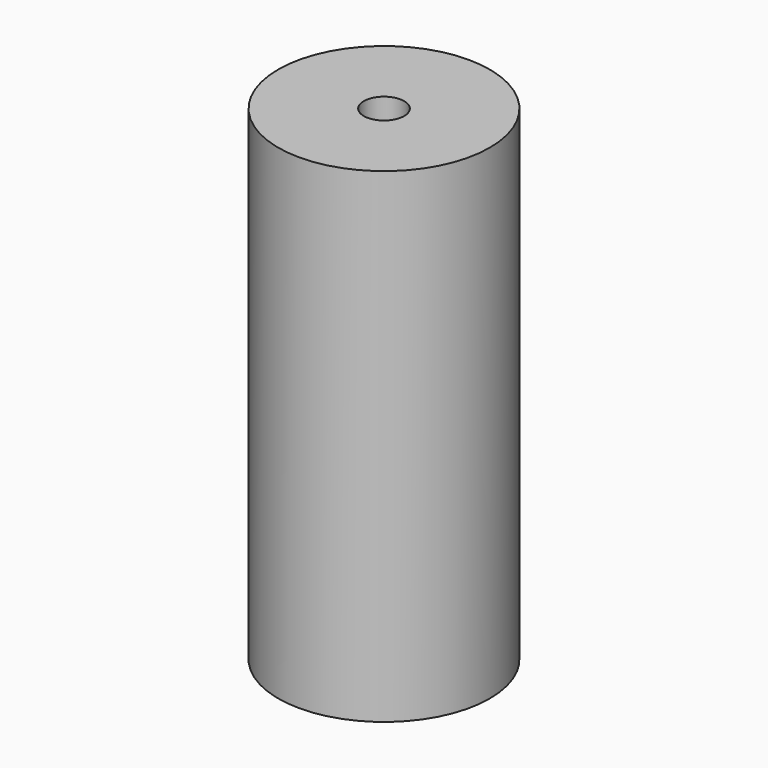
from build123d import *

# Parameters (mm, degrees)
F0_R     = 66.507583
F1_DEPTH = 304.800004
F2_D     = 25.4


with BuildPart() as f1:
    # F0 (on Top) → F1 (new body)
    with BuildSketch(Plane.XY):
        Circle(F0_R)
    extrude(amount=-F1_DEPTH)

    # F2 (through all)
    with Locations(Plane.XY):
        with Locations((0, 0)):
            Hole(F2_D / 2)


solid = f1.part
